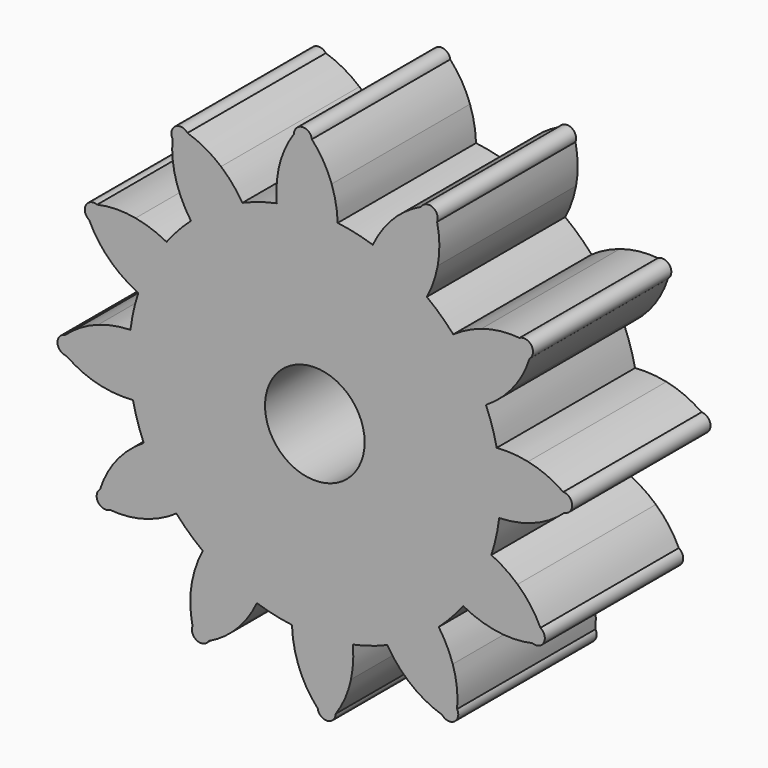
from build123d import *

# Parameters (mm, degrees)
F0_R     = 7.1999341443
F1_DEPTH = 25
F2_COUNT = 12


with BuildPart() as f1:
    # F0 (on Front) → F1 (new body)
    with BuildSketch(Plane.XZ):
        with BuildLine():
            ThreePointArc((-5.5037321386, 26.2905951396), (-16.935959718, -20.8484946382), (26.8605, 0))
            ThreePointArc((26.8605, 0), (20.1284425334, 17.7857319622), (3.3067864481, 26.6561742123))
            ThreePointArc((3.3067864481, 26.6561742123), (-1.1135773913, 26.8374068353), (-5.5037321386, 26.2905951396))
        make_face()
        Circle(F0_R, mode=Mode.SUBTRACT)
        with BuildLine():
            ThreePointArc((-5.5037321386, 26.2905951396), (-1.1135773913, 26.8374068353), (3.3067864481, 26.6561742123))
            ThreePointArc((3.3067864481, 26.6561742123), (3.0505391046, 29.0254049685), (2.4321068113, 31.3268085785))
            ThreePointArc((2.4321068113, 31.3268085785), (1.2432740933, 33.8512720329), (-0.4243337525, 36.0885299609))
            ThreePointArc((-0.4243337525, 36.0885299609), (-1.7986599336, 37.2018354856), (-3.0159130327, 35.9186688807))
            ThreePointArc((-3.0159130327, 35.9186688807), (-4.3772335038, 33.4828845022), (-5.226386991, 30.8248443747))
            ThreePointArc((-5.226386991, 30.8248443747), (-5.5330402485, 28.5679945844), (-5.5037321386, 26.2905951396))
        make_face()
    extrude(amount=F1_DEPTH)

    # F2: F1 ×12 about axis
    f2_axis = Axis((0, 0, 0), (0, 1, 0))


with BuildPart() as f1_1:
    add(f1.part)
    for i in range(1, F2_COUNT):
        add(f1.part.rotate(f2_axis, i * 360 / F2_COUNT))


solid = f1_1.part
